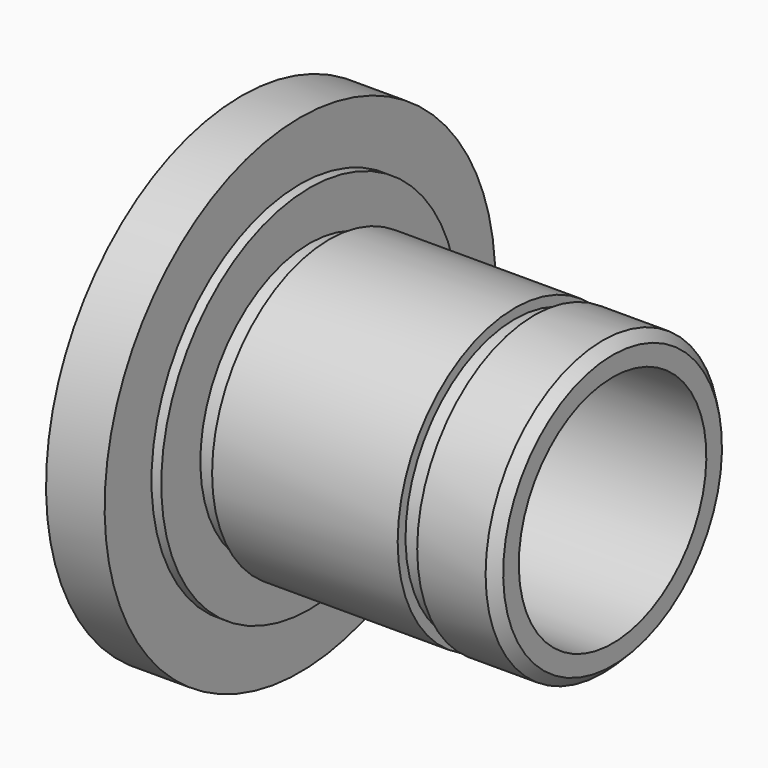
from build123d import *

# Parameters (mm, degrees)
F2_SIZE  = 1
F4_D     = 3
F4_DEPTH = 5
F4_TIP   = 0.9012909285


with BuildPart() as f1:
    # F0 (on Front) → F1 (revolve)
    with BuildSketch(Plane.XZ):
        Polygon((0, 25), (0, 12), (38, 12), (38, 15), (30, 15), (30, 14), (28, 14), (28, 15), (9, 15), (9, 14), (7, 14), (7, 19), (6, 19), (6, 25), align=None)
    revolve(axis=Axis((16.4548096063, 0, 0), (1, 0, 0)))

    # F2
    f2_edges = [f1.edges().sort_by_distance(p)[0] for p in [
        (38, 0, -15),
    ]]
    chamfer(f2_edges, length=F2_SIZE)

    # F4
    with Locations(Plane(origin=(0, 0, 0), x_dir=(0, -1, 0), z_dir=(-1, 0, 0))):
        with Locations((0, 17), (0, -17)):
            Hole(F4_D / 2, depth=F4_DEPTH)
            with Locations((0, 0, -(F4_DEPTH + F4_TIP / 2))):  # 118° drill point
                Cone(0, F4_D / 2, F4_TIP, mode=Mode.SUBTRACT)


solid = f1.part
